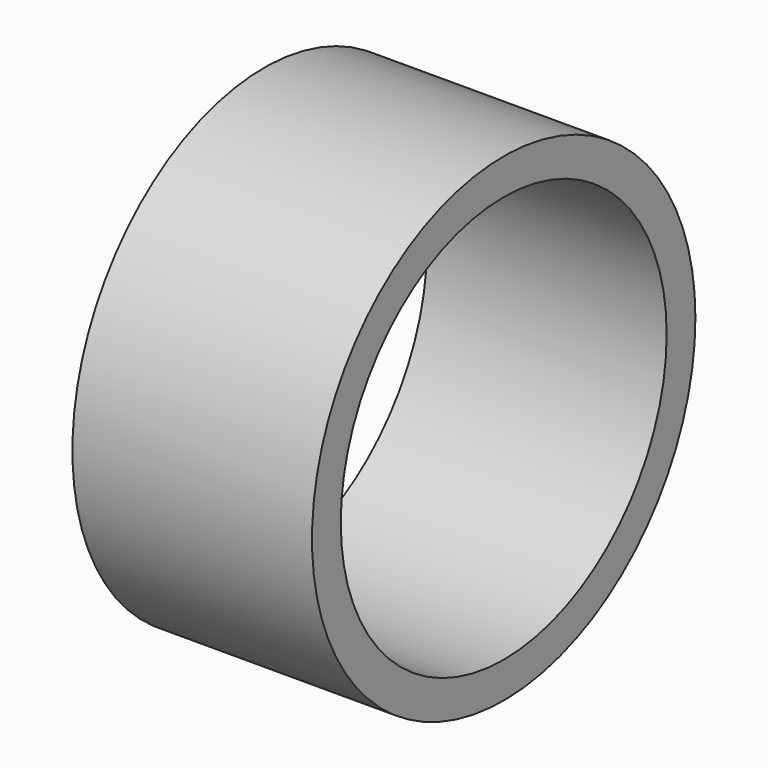
from build123d import *

# Parameters (mm, degrees)
F0_R     = 12.7
F1_DEPTH = 12.7
F3_D     = 21.59
F4_SCALE = 0.25


with BuildPart() as f1:
    # F0 (on Right) → F1 (new body)
    with BuildSketch(Plane.YZ):
        Circle(F0_R)
    extrude(amount=F1_DEPTH)

    # F3 (through all)
    with Locations(Plane.YZ.offset(12.7)):
        with Locations((0, 0)):
            Hole(F3_D / 2)


with BuildPart() as f1_1:
    # F4: moved
    add(f1.part.scale(F4_SCALE))


solid = f1_1.part
